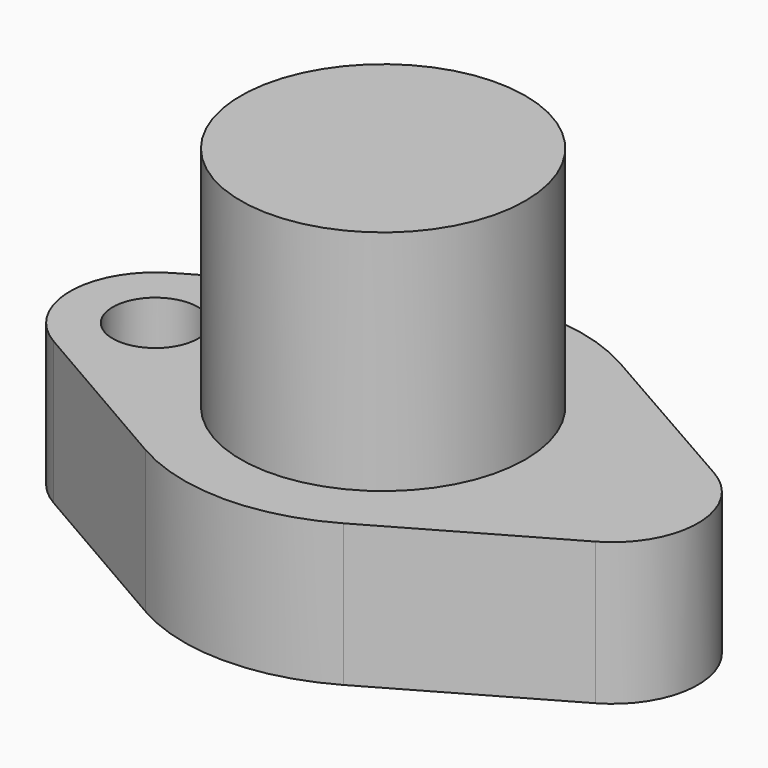
from build123d import *

# Parameters (mm, degrees)
F1_DEPTH = 25
F2_R     = 7.5
F3_DEPTH = 25
F4_R     = 25
F5_DEPTH = 40


with BuildPart() as f1:
    # F0 (on Top) → F1 (new body)
    with BuildSketch(Plane.XY):
        with BuildLine():
            Line((-17.5, 30.310889), (-47.5, 12.990381))
            ThreePointArc((-47.5, 12.990381), (-55, 0), (-47.5, -12.990381))
            Line((-47.5, -12.990381), (-17.5, -30.310889))
            ThreePointArc((-17.5, -30.310889), (-0.077922, -34.999913), (17.364863, -30.38851))
            Line((17.364863, -30.38851), (47.753373, -13.023647))
            ThreePointArc((47.753373, -13.023647), (55.311289, 0), (47.753373, 13.023647))
            Line((47.753373, 13.023647), (17.364863, 30.38851))
            ThreePointArc((17.364863, 30.38851), (-0.077922, 34.999913), (-17.5, 30.310889))
        make_face()
    extrude(amount=F1_DEPTH)

    # F2 (on face) → F3 (cut)
    with BuildSketch(Plane.XY.offset(25)):
        with Locations((-40, 0)):
            Circle(F2_R)
    extrude(amount=-F3_DEPTH, mode=Mode.SUBTRACT)

    # F4 (on face) → F5 (join)
    with BuildSketch(Plane.XY.offset(25)):
        Circle(F4_R)
    extrude(amount=F5_DEPTH)


solid = f1.part
